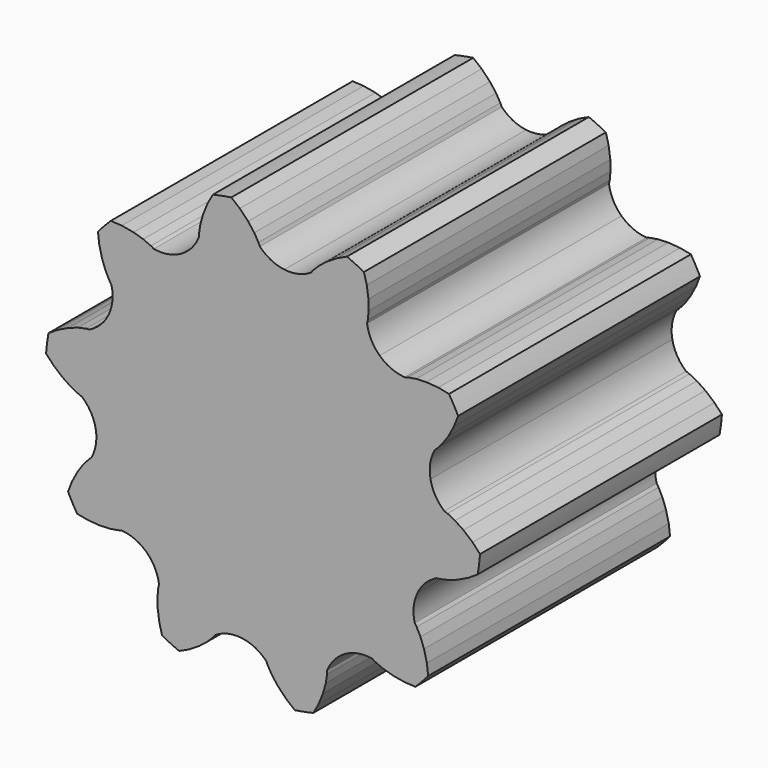
from build123d import *

# Parameters (mm, degrees)
F2_DEPTH = 5
F3_DEPTH = 5


with BuildPart() as f2:
    # F0 (on Front) → F2 (new body)
    with BuildSketch(Plane.XZ):
        with BuildLine():
            ThreePointArc((-1.3605771948, 2.469039187), (-1.4338273327, -2.4272338144), (2.8191, 0))
            ThreePointArc((2.8191, 0), (1.9934047268, 1.9934047268), (0, 2.8191))
            ThreePointArc((0, 2.8191), (-0.2667015724, 2.8064559646), (-0.5310107613, 2.7686372788))
            ThreePointArc((-0.5310107613, 2.7686372788), (-0.7905566435, 2.7059831861), (-1.0430110241, 2.6190557103))
            ThreePointArc((-1.0430110241, 2.6190557103), (-1.204132601, 2.5489977421), (-1.3605771948, 2.469039187))
        make_face()
    extrude(amount=F2_DEPTH)

    # F1 (on Front) → F3 (join)
    with BuildSketch(Plane.XZ):
        with BuildLine():
            ThreePointArc((2.168561868, 1.8012951548), (2.4690391758, 1.3605772151), (2.6811234251, 0.8711498088))
            Line((2.6811234251, 0.8711498088), (2.6953960876, 0.8770617392))
            Line((2.6953960876, 0.8770617392), (2.7360884066, 0.8991558658))
            Line((2.7360884066, 0.8991558658), (2.7991315743, 0.9434652957))
            Line((2.7991315743, 0.9434652957), (2.8365003825, 0.9768651802))
            Line((2.8365003825, 0.9768651802), (2.8793863886, 1.0151962835))
            Line((2.8793863886, 1.0151962835), (2.9707976727, 1.1185549888))
            Line((2.9707976727, 1.1185549888), (3.0665754047, 1.2566017885))
            Line((3.0665754047, 1.2566017885), (3.1593977795, 1.4311371292))
            Line((3.1593977795, 1.4311371292), (3.2249898391, 1.5998251586))
            ThreePointArc((3.2249898391, 1.5998251586), (3.1529711727, 1.7374615922), (3.075081928, 1.8718630122))
            Line((3.075081928, 1.8718630122), (2.8974383938, 1.9065147695))
            Line((2.8974383938, 1.9065147695), (2.7003067651, 1.9212694091))
            Line((2.7003067651, 1.9212694091), (2.5324438298, 1.914035612))
            Line((2.5324438298, 1.914035612), (2.3962383665, 1.8919648938))
            Line((2.3962383665, 1.8919648938), (2.3409262723, 1.8761834099))
            Line((2.3409262723, 1.8761834099), (2.2927299671, 1.862432182))
            Line((2.2927299671, 1.862432182), (2.2215970729, 1.8328031769))
            Line((2.2215970729, 1.8328031769), (2.1811833906, 1.8102034086))
            Line((2.1811833906, 1.8102034086), (2.168561868, 1.8012951548))
        make_face()
        with BuildLine():
            ThreePointArc((2.8131781316, 0.1826297074), (2.817619144, 0.091362846), (2.8191, 0))
            ThreePointArc((2.8191, 0), (2.784392201, -0.4410044004), (2.6811234251, -0.8711498088))
            Line((2.6811234251, -0.8711498088), (2.6961451971, -0.8747562172))
            Line((2.6961451971, -0.8747562172), (2.7420525765, -0.8808000384))
            Line((2.7420525765, -0.8808000384), (2.8191, -0.8820088008))
            Line((2.8191, -0.8820088008), (2.8689639604, -0.876952561))
            Line((2.8689639604, -0.876952561), (2.9261899254, -0.8711498088))
            Line((2.9261899254, -0.8711498088), (3.0608959303, -0.8412610645))
            Line((3.0608959303, -0.8412610645), (3.2195236162, -0.7858755959))
            Line((3.2195236162, -0.7858755959), (3.3972077942, -0.6992331621))
            Line((3.3972077942, -0.6992331621), (3.5494252209, -0.6013157249))
            ThreePointArc((3.5494252209, -0.6013157249), (3.5720615618, -0.4476340011), (3.5880470117, -0.2931188188))
            Line((3.5880470117, -0.2931188188), (3.4646981655, -0.1606687088))
            Line((3.4646981655, -0.1606687088), (3.3138878873, -0.0328608904))
            Line((3.3138878873, -0.0328608904), (3.1738320007, 0.0599542026))
            Line((3.1738320007, 0.0599542026), (3.0506666236, 0.122158179))
            Line((3.0506666236, 0.122158179), (2.9966420758, 0.1419023236))
            Line((2.9966420758, 0.1419023236), (2.9495676769, 0.159106424))
            Line((2.9495676769, 0.159106424), (2.8746044644, 0.1769469215))
            Line((2.8746044644, 0.1769469215), (2.828625298, 0.1824178913))
            Line((2.828625298, 0.1824178913), (2.8131781316, 0.1826297074))
        make_face()
        with BuildLine():
            Line((2.3956284831, -1.5150450603), (2.3832559653, -1.5057940809))
            ThreePointArc((2.3832559653, -1.5057940809), (2.0569608915, -1.9277543155), (1.6570254047, -2.2806998088))
            Line((1.6570254047, -2.2806998088), (1.66705848, -2.2924470306))
            Line((1.66705848, -2.2924470306), (1.700645861, -2.3243202652))
            Line((1.700645861, -2.3243202652), (1.7622680433, -2.3705855138))
            Line((1.7622680433, -2.3705855138), (1.8055808179, -2.3958042303))
            Line((1.8055808179, -2.3958042303), (1.8552883682, -2.4247462835))
            Line((1.8552883682, -2.4247462835), (1.9818359786, -2.4797439845))
            Line((1.9818359786, -2.4797439845), (2.1427232339, -2.5281752136))
            Line((2.1427232339, -2.5281752136), (2.3373998984, -2.5625201516))
            Line((2.3373998984, -2.5625201516), (2.518100809, -2.5727744394))
            ThreePointArc((2.518100809, -2.5727744394), (2.6267458442, -2.4617486204), (2.7305000902, -2.3461392238))
            Line((2.7305000902, -2.3461392238), (2.7085609988, -2.1664822012))
            Line((2.7085609988, -2.1664822012), (2.6616764715, -1.9744394467))
            Line((2.6616764715, -1.9744394467), (2.6029242219, -1.8170276745))
            Line((2.6029242219, -1.8170276745), (2.5398439187, -1.6943088081))
            Line((2.5398439187, -1.6943088081), (2.5077424585, -1.6465806272))
            Line((2.5077424585, -1.6465806272), (2.4797707862, -1.6049925802))
            Line((2.4797707862, -1.6049925802), (2.4296106547, -1.5464970437))
            Line((2.4296106547, -1.5464970437), (2.3956284831, -1.5150450603))
        make_face()
        with BuildLine():
            Line((1.047583012, -2.6338122934), (1.0430110241, -2.6190557103))
            ThreePointArc((1.0430110241, -2.6190557103), (0.5310107613, -2.7686372788), (0, -2.8191))
            Line((0, -2.8191), (0.0012120846, -2.8345009957))
            Line((0.0012120846, -2.8345009957), (0.0096502295, -2.8800291514))
            Line((0.0096502295, -2.8800291514), (0.0323095914, -2.9536791337))
            Line((0.0323095914, -2.9536791337), (0.0525271724, -2.9995401141))
            Line((0.0525271724, -2.9995401141), (0.0757297133, -3.052172092))
            Line((0.0757297133, -3.052172092), (0.1457820432, -3.1710489859))
            Line((0.1457820432, -3.1710489859), (0.2474754047, -3.3047978292))
            Line((0.2474754047, -3.3047978292), (0.3847846866, -3.44701154))
            Line((0.3847846866, -3.44701154), (0.524947475, -3.5615207634))
            ThreePointArc((0.524947475, -3.5615207634), (0.6781024939, -3.5355589385), (0.8299949405, -3.5030141876))
            Line((0.8299949405, -3.5030141876), (0.9178455911, -3.3447731288))
            Line((0.9178455911, -3.3447731288), (0.9927951106, -3.1618492431))
            Line((0.9927951106, -3.1618492431), (1.0377878605, -2.9999667384))
            Line((1.0377878605, -2.9999667384), (1.058887163, -2.8636074181))
            Line((1.058887163, -2.8636074181), (1.0609704571, -2.8061257437))
            Line((1.0609704571, -2.8061257437), (1.0627857395, -2.7560389704))
            Line((1.0627857395, -2.7560389704), (1.0565881543, -2.6792317018))
            Line((1.0565881543, -2.6792317018), (1.047583012, -2.6338122934))
        make_face()
        with BuildLine():
            ThreePointArc((-2.3832559653, 1.5057940809), (-2.0569608915, 1.9277543155), (-1.6570254047, 2.2806998088))
            Line((-1.6570254047, 2.2806998088), (-1.66705848, 2.2924470306))
            Line((-1.66705848, 2.2924470306), (-1.700645861, 2.3243202652))
            Line((-1.700645861, 2.3243202652), (-1.7622680433, 2.3705855138))
            Line((-1.7622680433, 2.3705855138), (-1.8055808179, 2.3958042303))
            Line((-1.8055808179, 2.3958042303), (-1.8552883682, 2.4247462835))
            Line((-1.8552883682, 2.4247462835), (-1.9818359786, 2.4797439845))
            Line((-1.9818359786, 2.4797439845), (-2.1427232339, 2.5281752136))
            Line((-2.1427232339, 2.5281752136), (-2.3373998984, 2.5625201516))
            Line((-2.3373998984, 2.5625201516), (-2.518100809, 2.5727744394))
            ThreePointArc((-2.518100809, 2.5727744394), (-2.6267458442, 2.4617486204), (-2.7305000902, 2.3461392238))
            Line((-2.7305000902, 2.3461392238), (-2.7085609988, 2.1664822012))
            Line((-2.7085609988, 2.1664822012), (-2.6616764715, 1.9744394467))
            Line((-2.6616764715, 1.9744394467), (-2.6029242219, 1.8170276745))
            Line((-2.6029242219, 1.8170276745), (-2.5398439187, 1.6943088081))
            Line((-2.5398439187, 1.6943088081), (-2.5077424585, 1.6465806272))
            Line((-2.5077424585, 1.6465806272), (-2.4797707862, 1.6049925802))
            Line((-2.4797707862, 1.6049925802), (-2.4296106547, 1.5464970437))
            Line((-2.4296106547, 1.5464970437), (-2.3956284831, 1.5150450603))
            Line((-2.3956284831, 1.5150450603), (-2.3832559653, 1.5057940809))
        make_face()
        with BuildLine():
            ThreePointArc((0.6956286776, 2.7319270768), (1.1977674314, 2.5519949041), (1.6570254047, 2.2806998088))
            Line((1.6570254047, 2.2806998088), (1.6650972858, 2.2938719216))
            Line((1.6650972858, 2.2938719216), (1.6850314617, 2.3356647904))
            Line((1.6850314617, 2.3356647904), (1.7099900263, 2.4085677165))
            Line((1.7099900263, 2.4085677165), (1.7205900676, 2.4575536249))
            Line((1.7205900676, 2.4575536249), (1.7327551181, 2.5137719009))
            Line((1.7327551181, 2.5137719009), (1.7459556778, 2.6511210546))
            Line((1.7459556778, 2.6511210546), (1.7422996177, 2.8191))
            Line((1.7422996177, 2.8191), (1.7148051971, 3.0148616798))
            Line((1.7148051971, 3.0148616798), (1.668717952, 3.1898872075))
            ThreePointArc((1.668717952, 3.1898872075), (1.5295529612, 3.2589059113), (1.3875400659, 3.3218567948))
            Line((1.3875400659, 3.3218567948), (1.223455636, 3.2454744058))
            Line((1.223455636, 3.2454744058), (1.0553002386, 3.1415400959))
            Line((1.0553002386, 3.1415400959), (0.9237481905, 3.0370204733))
            Line((0.9237481905, 3.0370204733), (0.8265284987, 2.9391053247))
            Line((0.8265284987, 2.9391053247), (0.7910561979, 2.8938262028))
            Line((0.7910561979, 2.8938262028), (0.7601473369, 2.8543721483))
            Line((0.7601473369, 2.8543721483), (0.7200151089, 2.7885909135))
            Line((0.7200151089, 2.7885909135), (0.7006035636, 2.7465527503))
            Line((0.7006035636, 2.7465527503), (0.6956286776, 2.7319270768))
        make_face()
        with BuildLine():
            ThreePointArc((-1.0430110241, 2.6190557103), (-0.5310107613, 2.7686372788), (0, 2.8191))
            Line((0, 2.8191), (-0.0012120846, 2.8345009957))
            Line((-0.0012120846, 2.8345009957), (-0.0096502295, 2.8800291514))
            Line((-0.0096502295, 2.8800291514), (-0.0323095914, 2.9536791337))
            Line((-0.0323095914, 2.9536791337), (-0.0525271724, 2.9995401141))
            Line((-0.0525271724, 2.9995401141), (-0.0757297133, 3.052172092))
            Line((-0.0757297133, 3.052172092), (-0.1457820432, 3.1710489859))
            Line((-0.1457820432, 3.1710489859), (-0.2474754047, 3.3047978292))
            Line((-0.2474754047, 3.3047978292), (-0.3847846866, 3.44701154))
            Line((-0.3847846866, 3.44701154), (-0.524947475, 3.5615207634))
            ThreePointArc((-0.524947475, 3.5615207634), (-0.6781024939, 3.5355589385), (-0.8299949405, 3.5030141876))
            Line((-0.8299949405, 3.5030141876), (-0.9178455911, 3.3447731288))
            Line((-0.9178455911, 3.3447731288), (-0.9927951106, 3.1618492431))
            Line((-0.9927951106, 3.1618492431), (-1.0377878605, 2.9999667384))
            Line((-1.0377878605, 2.9999667384), (-1.058887163, 2.8636074181))
            Line((-1.058887163, 2.8636074181), (-1.0609704571, 2.8061257437))
            Line((-1.0609704571, 2.8061257437), (-1.0627857395, 2.7560389704))
            Line((-1.0627857395, 2.7560389704), (-1.0565881543, 2.6792317018))
            Line((-1.0565881543, 2.6792317018), (-1.047583012, 2.6338122934))
            Line((-1.047583012, 2.6338122934), (-1.0430110241, 2.6190557103))
        make_face()
        with BuildLine():
            ThreePointArc((-2.8131781316, -0.1826297074), (-2.7972218747, 0.3505347257), (-2.6811234251, 0.8711498088))
            Line((-2.6811234251, 0.8711498088), (-2.6961451971, 0.8747562172))
            Line((-2.6961451971, 0.8747562172), (-2.7420525765, 0.8808000384))
            Line((-2.7420525765, 0.8808000384), (-2.8191, 0.8820088008))
            Line((-2.8191, 0.8820088008), (-2.8689639604, 0.876952561))
            Line((-2.8689639604, 0.876952561), (-2.9261899254, 0.8711498088))
            Line((-2.9261899254, 0.8711498088), (-3.0608959303, 0.8412610645))
            Line((-3.0608959303, 0.8412610645), (-3.2195236162, 0.7858755959))
            Line((-3.2195236162, 0.7858755959), (-3.3972077942, 0.6992331621))
            Line((-3.3972077942, 0.6992331621), (-3.5494252209, 0.6013157249))
            ThreePointArc((-3.5494252209, 0.6013157249), (-3.5720615618, 0.4476340011), (-3.5880470117, 0.2931188188))
            Line((-3.5880470117, 0.2931188188), (-3.4646981655, 0.1606687088))
            Line((-3.4646981655, 0.1606687088), (-3.3138878873, 0.0328608904))
            Line((-3.3138878873, 0.0328608904), (-3.1738320007, -0.0599542026))
            Line((-3.1738320007, -0.0599542026), (-3.0506666236, -0.122158179))
            Line((-3.0506666236, -0.122158179), (-2.9966420758, -0.1419023236))
            Line((-2.9966420758, -0.1419023236), (-2.9495676769, -0.159106424))
            Line((-2.9495676769, -0.159106424), (-2.8746044644, -0.1769469215))
            Line((-2.8746044644, -0.1769469215), (-2.828625298, -0.1824178913))
            Line((-2.828625298, -0.1824178913), (-2.8131781316, -0.1826297074))
        make_face()
        with BuildLine():
            Line((-2.1811833906, -1.8102034086), (-2.168561868, -1.8012951548))
            ThreePointArc((-2.168561868, -1.8012951548), (-2.4690391758, -1.3605772151), (-2.6811234251, -0.8711498088))
            Line((-2.6811234251, -0.8711498088), (-2.6953960876, -0.8770617392))
            Line((-2.6953960876, -0.8770617392), (-2.7360884066, -0.8991558658))
            Line((-2.7360884066, -0.8991558658), (-2.7991315743, -0.9434652957))
            Line((-2.7991315743, -0.9434652957), (-2.8365003825, -0.9768651802))
            Line((-2.8365003825, -0.9768651802), (-2.8793863886, -1.0151962835))
            Line((-2.8793863886, -1.0151962835), (-2.9707976727, -1.1185549888))
            Line((-2.9707976727, -1.1185549888), (-3.0665754047, -1.2566017885))
            Line((-3.0665754047, -1.2566017885), (-3.1593977795, -1.4311371292))
            Line((-3.1593977795, -1.4311371292), (-3.2249898391, -1.5998251586))
            ThreePointArc((-3.2249898391, -1.5998251586), (-3.1529711727, -1.7374615922), (-3.075081928, -1.8718630122))
            Line((-3.075081928, -1.8718630122), (-2.8974383938, -1.9065147695))
            Line((-2.8974383938, -1.9065147695), (-2.7003067651, -1.9212694091))
            Line((-2.7003067651, -1.9212694091), (-2.5324438298, -1.914035612))
            Line((-2.5324438298, -1.914035612), (-2.3962383665, -1.8919648938))
            Line((-2.3962383665, -1.8919648938), (-2.3409262723, -1.8761834099))
            Line((-2.3409262723, -1.8761834099), (-2.2927299671, -1.862432182))
            Line((-2.2927299671, -1.862432182), (-2.2215970729, -1.8328031769))
            Line((-2.2215970729, -1.8328031769), (-2.1811833906, -1.8102034086))
        make_face()
        with BuildLine():
            Line((-0.7006035636, -2.7465527503), (-0.6956286776, -2.7319270768))
            ThreePointArc((-0.6956286776, -2.7319270768), (-1.1977674314, -2.5519949041), (-1.6570254047, -2.2806998088))
            Line((-1.6570254047, -2.2806998088), (-1.6650972858, -2.2938719216))
            Line((-1.6650972858, -2.2938719216), (-1.6850314617, -2.3356647904))
            Line((-1.6850314617, -2.3356647904), (-1.7099900263, -2.4085677165))
            Line((-1.7099900263, -2.4085677165), (-1.7205900676, -2.4575536249))
            Line((-1.7205900676, -2.4575536249), (-1.7327551181, -2.5137719009))
            Line((-1.7327551181, -2.5137719009), (-1.7459556778, -2.6511210546))
            Line((-1.7459556778, -2.6511210546), (-1.7422996177, -2.8191))
            Line((-1.7422996177, -2.8191), (-1.7148051971, -3.0148616798))
            Line((-1.7148051971, -3.0148616798), (-1.668717952, -3.1898872075))
            ThreePointArc((-1.668717952, -3.1898872075), (-1.5295529612, -3.2589059113), (-1.3875400659, -3.3218567948))
            Line((-1.3875400659, -3.3218567948), (-1.223455636, -3.2454744058))
            Line((-1.223455636, -3.2454744058), (-1.0553002386, -3.1415400959))
            Line((-1.0553002386, -3.1415400959), (-0.9237481905, -3.0370204733))
            Line((-0.9237481905, -3.0370204733), (-0.8265284987, -2.9391053247))
            Line((-0.8265284987, -2.9391053247), (-0.7910561979, -2.8938262028))
            Line((-0.7910561979, -2.8938262028), (-0.7601473369, -2.8543721483))
            Line((-0.7601473369, -2.8543721483), (-0.7200151089, -2.7885909135))
            Line((-0.7200151089, -2.7885909135), (-0.7006035636, -2.7465527503))
        make_face()
        with BuildLine():
            ThreePointArc((-1.3605772431, 2.4690391604), (-1.2041326259, 2.5489977303), (-1.0430110241, 2.6190557103))
            Line((-1.0430110241, 2.6190557103), (-1.047583012, 2.6338122934))
            Line((-1.047583012, 2.6338122934), (-1.0565881543, 2.6792317018))
            Line((-1.0565881543, 2.6792317018), (-1.0627857395, 2.7560389704))
            Line((-1.0627857395, 2.7560389704), (-1.0609704571, 2.8061257437))
            ThreePointArc((-1.0609704571, 2.8061257437), (-1.181795083, 2.6118257602), (-1.3605772431, 2.4690391604))
        make_face()
        with BuildLine():
            ThreePointArc((-1.6570254047, 2.2806998088), (-1.5117372003, 2.3794905856), (-1.3605772431, 2.4690391604))
            ThreePointArc((-1.3605772431, 2.4690391604), (-1.5767831475, 2.3941654914), (-1.8055808179, 2.3958042303))
            Line((-1.8055808179, 2.3958042303), (-1.7622680433, 2.3705855138))
            Line((-1.7622680433, 2.3705855138), (-1.700645861, 2.3243202652))
            Line((-1.700645861, 2.3243202652), (-1.66705848, 2.2924470306))
            Line((-1.66705848, 2.2924470306), (-1.6570254047, 2.2806998088))
        make_face()
        with BuildLine():
            ThreePointArc((-2.5519949017, 1.1977674363), (-2.4724270229, 1.3544110995), (-2.3832559653, 1.5057940809))
            Line((-2.3832559653, 1.5057940809), (-2.3956284831, 1.5150450603))
            Line((-2.3956284831, 1.5150450603), (-2.4296106547, 1.5464970437))
            Line((-2.4296106547, 1.5464970437), (-2.4797707862, 1.6049925802))
            Line((-2.4797707862, 1.6049925802), (-2.5077424585, 1.6465806272))
            ThreePointArc((-2.5077424585, 1.6465806272), (-2.4912849676, 1.4183697239), (-2.5519949017, 1.1977674363))
        make_face()
        with BuildLine():
            ThreePointArc((-2.6811234251, 0.8711498088), (-2.6216505534, 1.0364715074), (-2.5519949017, 1.1977674363))
            ThreePointArc((-2.5519949017, 1.1977674363), (-2.682899517, 1.010110703), (-2.8689639604, 0.876952561))
            Line((-2.8689639604, 0.876952561), (-2.8191, 0.8820088008))
            Line((-2.8191, 0.8820088008), (-2.7420525765, 0.8808000384))
            Line((-2.7420525765, 0.8808000384), (-2.6961451971, 0.8747562172))
            Line((-2.6961451971, 0.8747562172), (-2.6811234251, 0.8711498088))
        make_face()
        with BuildLine():
            ThreePointArc((-2.9966420758, -0.1419023236), (-2.8491886867, -0.3168553453), (-2.7686372829, -0.53101074))
            ThreePointArc((-2.7686372829, -0.53101074), (-2.7963383497, -0.3575145365), (-2.8131781316, -0.1826297074))
            Line((-2.8131781316, -0.1826297074), (-2.828625298, -0.1824178913))
            Line((-2.828625298, -0.1824178913), (-2.8746044644, -0.1769469215))
            Line((-2.8746044644, -0.1769469215), (-2.9495676769, -0.159106424))
            Line((-2.9495676769, -0.159106424), (-2.9966420758, -0.1419023236))
        make_face()
        with BuildLine():
            Line((-2.6953960876, -0.8770617392), (-2.6811234251, -0.8711498088))
            ThreePointArc((-2.6811234251, -0.8711498088), (-2.7301825195, -0.7024444604), (-2.7686372829, -0.53101074))
            ThreePointArc((-2.7686372829, -0.53101074), (-2.7642394766, -0.7597720366), (-2.8365003825, -0.9768651802))
            Line((-2.8365003825, -0.9768651802), (-2.7991315743, -0.9434652957))
            Line((-2.7991315743, -0.9434652957), (-2.7360884066, -0.8991558658))
            Line((-2.7360884066, -0.8991558658), (-2.6953960876, -0.8770617392))
        make_face()
        with BuildLine():
            ThreePointArc((-2.3409262723, -1.8761834099), (-2.1187991577, -1.9310524549), (-1.9277543139, -2.056960893))
            ThreePointArc((-1.9277543139, -2.056960893), (-2.0521434667, -1.9328817869), (-2.168561868, -1.8012951548))
            Line((-2.168561868, -1.8012951548), (-2.1811833906, -1.8102034086))
            Line((-2.1811833906, -1.8102034086), (-2.2215970729, -1.8328031769))
            Line((-2.2215970729, -1.8328031769), (-2.2927299671, -1.862432182))
            Line((-2.2927299671, -1.862432182), (-2.3409262723, -1.8761834099))
        make_face()
        with BuildLine():
            Line((-1.6650972858, -2.2938719216), (-1.6570254047, -2.2806998088))
            ThreePointArc((-1.6570254047, -2.2806998088), (-1.7958775524, -2.1730505348), (-1.9277543139, -2.056960893))
            ThreePointArc((-1.9277543139, -2.056960893), (-1.7897339094, -2.2394476982), (-1.7205900676, -2.4575536249))
            Line((-1.7205900676, -2.4575536249), (-1.7099900263, -2.4085677165))
            Line((-1.7099900263, -2.4085677165), (-1.6850314617, -2.3356647904))
            Line((-1.6850314617, -2.3356647904), (-1.6650972858, -2.2938719216))
        make_face()
        with BuildLine():
            ThreePointArc((2.6811234251, 0.8711498088), (2.7301825183, 0.7024444653), (2.768637281, 0.5310107499))
            ThreePointArc((2.768637281, 0.5310107499), (2.7642394774, 0.7597720415), (2.8365003825, 0.9768651802))
            Line((2.8365003825, 0.9768651802), (2.7991315743, 0.9434652957))
            Line((2.7991315743, 0.9434652957), (2.7360884066, 0.8991558658))
            Line((2.7360884066, 0.8991558658), (2.6953960876, 0.8770617392))
            Line((2.6953960876, 0.8770617392), (2.6811234251, 0.8711498088))
        make_face()
        with BuildLine():
            ThreePointArc((2.768637281, 0.5310107499), (2.7963383491, 0.3575145415), (2.8131781316, 0.1826297074))
            Line((2.8131781316, 0.1826297074), (2.828625298, 0.1824178913))
            Line((2.828625298, 0.1824178913), (2.8746044644, 0.1769469215))
            Line((2.8746044644, 0.1769469215), (2.9495676769, 0.159106424))
            Line((2.9495676769, 0.159106424), (2.9966420758, 0.1419023236))
            ThreePointArc((2.9966420758, 0.1419023236), (2.8491886842, 0.3168553496), (2.768637281, 0.5310107499))
        make_face()
        with BuildLine():
            ThreePointArc((1.9277543144, 2.0569608925), (2.052143467, 1.9328817866), (2.168561868, 1.8012951548))
            Line((2.168561868, 1.8012951548), (2.1811833906, 1.8102034086))
            Line((2.1811833906, 1.8102034086), (2.2215970729, 1.8328031769))
            Line((2.2215970729, 1.8328031769), (2.2927299671, 1.862432182))
            Line((2.2927299671, 1.862432182), (2.3409262723, 1.8761834099))
            ThreePointArc((2.3409262723, 1.8761834099), (2.118799158, 1.9310524548), (1.9277543144, 2.0569608925))
        make_face()
        with BuildLine():
            ThreePointArc((1.6570254047, 2.2806998088), (1.7958775527, 2.1730505345), (1.9277543144, 2.0569608925))
            ThreePointArc((1.9277543144, 2.0569608925), (1.7897339096, 2.2394476979), (1.7205900676, 2.4575536249))
            Line((1.7205900676, 2.4575536249), (1.7099900263, 2.4085677165))
            Line((1.7099900263, 2.4085677165), (1.6850314617, 2.3356647904))
            Line((1.6850314617, 2.3356647904), (1.6650972858, 2.2938719216))
            Line((1.6650972858, 2.2938719216), (1.6570254047, 2.2806998088))
        make_face()
        with BuildLine():
            ThreePointArc((0.3505347455, 2.7972218722), (0.5240995416, 2.769953877), (0.6956286776, 2.7319270768))
            Line((0.6956286776, 2.7319270768), (0.7006035636, 2.7465527503))
            Line((0.7006035636, 2.7465527503), (0.7200151089, 2.7885909135))
            Line((0.7200151089, 2.7885909135), (0.7601473369, 2.8543721483))
            Line((0.7601473369, 2.8543721483), (0.7910561979, 2.8938262028))
            ThreePointArc((0.7910561979, 2.8938262028), (0.5791003827, 2.8076531529), (0.3505347455, 2.7972218722))
        make_face()
        with BuildLine():
            ThreePointArc((0, 2.8191), (0.175608414, 2.8136251518), (0.3505347455, 2.7972218722))
            ThreePointArc((0.3505347455, 2.7972218722), (0.1316108278, 2.8637304384), (-0.0525271724, 2.9995401141))
            Line((-0.0525271724, 2.9995401141), (-0.0323095914, 2.9536791337))
            Line((-0.0323095914, 2.9536791337), (-0.0096502295, 2.8800291514))
            Line((-0.0096502295, 2.8800291514), (-0.0012120846, 2.8345009957))
            Line((-0.0012120846, 2.8345009957), (0, 2.8191))
        make_face()
        with BuildLine():
            ThreePointArc((2.5077424585, -1.6465806272), (2.4912849682, -1.4183697182), (2.5519949066, -1.1977674259))
            ThreePointArc((2.5519949066, -1.1977674259), (2.4724270257, -1.3544110945), (2.3832559653, -1.5057940809))
            Line((2.3832559653, -1.5057940809), (2.3956284831, -1.5150450603))
            Line((2.3956284831, -1.5150450603), (2.4296106547, -1.5464970437))
            Line((2.4296106547, -1.5464970437), (2.4797707862, -1.6049925802))
            Line((2.4797707862, -1.6049925802), (2.5077424585, -1.6465806272))
        make_face()
        with BuildLine():
            Line((2.6961451971, -0.8747562172), (2.6811234251, -0.8711498088))
            ThreePointArc((2.6811234251, -0.8711498088), (2.6216505555, -1.0364715021), (2.5519949066, -1.1977674259))
            ThreePointArc((2.5519949066, -1.1977674259), (2.6828995211, -1.0101106989), (2.8689639604, -0.876952561))
            Line((2.8689639604, -0.876952561), (2.8191, -0.8820088008))
            Line((2.8191, -0.8820088008), (2.7420525765, -0.8808000384))
            Line((2.7420525765, -0.8808000384), (2.6961451971, -0.8747562172))
        make_face()
        with BuildLine():
            Line((1.66705848, -2.2924470306), (1.6570254047, -2.2806998088))
            ThreePointArc((1.6570254047, -2.2806998088), (1.5117371836, -2.3794905963), (1.3605772084, -2.4690391795))
            ThreePointArc((1.3605772084, -2.4690391795), (1.576783128, -2.3941654946), (1.8055808179, -2.3958042303))
            Line((1.8055808179, -2.3958042303), (1.7622680433, -2.3705855138))
            Line((1.7622680433, -2.3705855138), (1.700645861, -2.3243202652))
            Line((1.700645861, -2.3243202652), (1.66705848, -2.2924470306))
        make_face()
        with BuildLine():
            ThreePointArc((1.0609704571, -2.8061257437), (1.1817950699, -2.611825775), (1.3605772084, -2.4690391795))
            ThreePointArc((1.3605772084, -2.4690391795), (1.204132608, -2.5489977388), (1.0430110241, -2.6190557103))
            Line((1.0430110241, -2.6190557103), (1.047583012, -2.6338122934))
            Line((1.047583012, -2.6338122934), (1.0565881543, -2.6792317018))
            Line((1.0565881543, -2.6792317018), (1.0627857395, -2.7560389704))
            Line((1.0627857395, -2.7560389704), (1.0609704571, -2.8061257437))
        make_face()
        with BuildLine():
            Line((0.0012120846, -2.8345009957), (0, -2.8191))
            ThreePointArc((0, -2.8191), (-0.1756084111, -2.813625152), (-0.3505347396, -2.7972218729))
            ThreePointArc((-0.3505347396, -2.7972218729), (-0.1316108251, -2.8637304397), (0.0525271724, -2.9995401141))
            Line((0.0525271724, -2.9995401141), (0.0323095914, -2.9536791337))
            Line((0.0323095914, -2.9536791337), (0.0096502295, -2.8800291514))
            Line((0.0096502295, -2.8800291514), (0.0012120846, -2.8345009957))
        make_face()
        with BuildLine():
            ThreePointArc((-0.7910561979, -2.8938262028), (-0.5791003798, -2.8076531523), (-0.3505347396, -2.7972218729))
            ThreePointArc((-0.3505347396, -2.7972218729), (-0.5240995387, -2.7699538775), (-0.6956286776, -2.7319270768))
            Line((-0.6956286776, -2.7319270768), (-0.7006035636, -2.7465527503))
            Line((-0.7006035636, -2.7465527503), (-0.7200151089, -2.7885909135))
            Line((-0.7200151089, -2.7885909135), (-0.7601473369, -2.8543721483))
            Line((-0.7601473369, -2.8543721483), (-0.7910561979, -2.8938262028))
        make_face()
    extrude(amount=F3_DEPTH)


solid = f2.part
